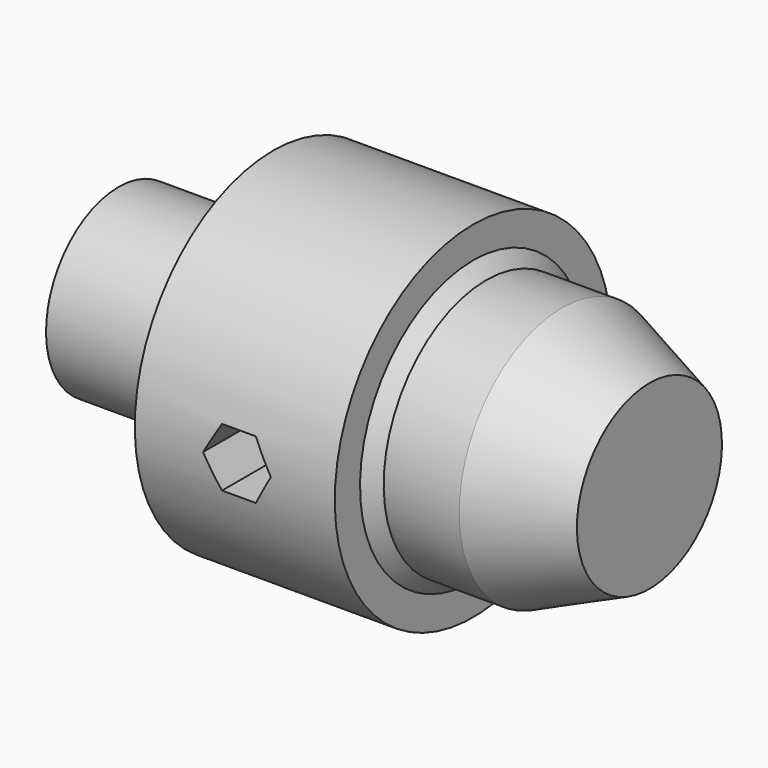
from build123d import *

# Parameters (mm, degrees)
F2_R          = 5.08
F3_SIZE       = 5.08
F5_DEPTH      = 67.8453350663
F5_DEPTH_BACK = 67.8453350663


with BuildPart() as f1:
    # F0 (on Front) → F1 (revolve)
    with BuildSketch(Plane.XZ):
        Polygon((0, 35.0362285972), (0, 0), (205.1634937525, 0), (205.1634937525, 35.0362285972), (171.3081896305, 49.5771542192), (137.0425224304, 49.5771542192), (137.0425224304, 66.8453350663), (59.7526952624, 66.8453350663), (59.7526952624, 35.0362285972), align=None)
    revolve(axis=Axis((102.5817468762, 0, 0), (-1, 0, 0)))

    # F2
    f2_edges = [f1.edges().sort_by_distance(p)[0] for p in [
        (59.752695, 0, -35.036229),
    ]]
    fillet(f2_edges, radius=F2_R)

    # F3
    f3_edges = [f1.edges().sort_by_distance(p)[0] for p in [
        (137.042522, 0, -49.577154),
    ]]
    chamfer(f3_edges, length=F3_SIZE)

    # F4 (on Front) → F5 (cut, two sides)
    with BuildSketch(Plane.XZ) as f5_sk:
        Polygon((92.6886847283, -11.3443676382), (105.7880321477, -11.3443676382), (112.3377058575, 0), (105.7880321477, 11.3443676382), (92.6886847283, 11.3443676382), (86.1390110186, 0), align=None)
    extrude(amount=F5_DEPTH, mode=Mode.SUBTRACT)
    extrude(f5_sk.sketch, amount=-F5_DEPTH_BACK, mode=Mode.SUBTRACT)


solid = f1.part
